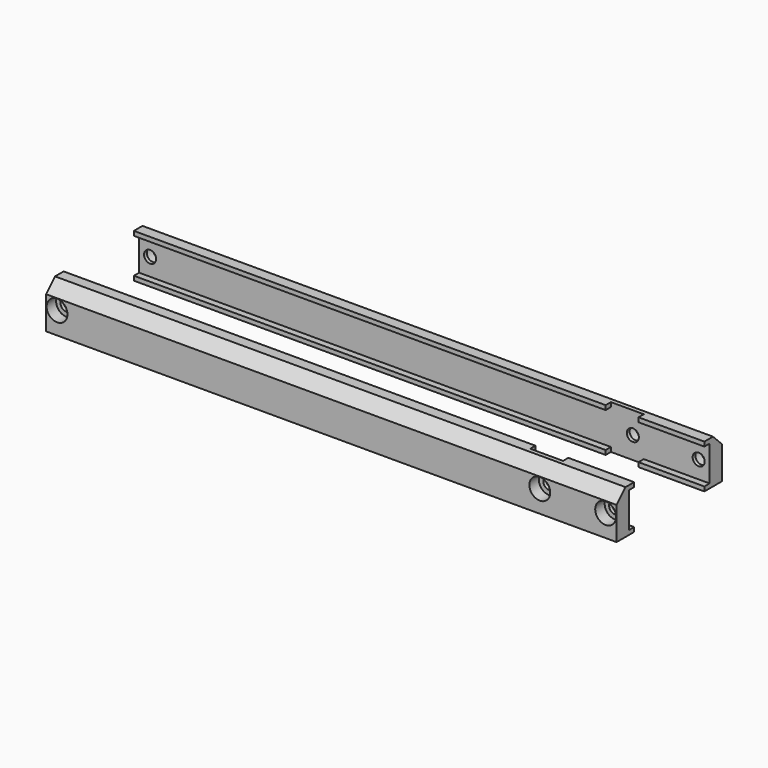
from build123d import *

# Parameters (mm, degrees)
F0_W           = 260
F0_H           = 20
F1_DEPTH       = 7
F3_D           = 5.5
F3_CBORE_D     = 9.5
F3_CBORE_DEPTH = 5.4
F4_W           = 215
F4_H           = 2
F4_W_2         = 30
F5_DEPTH       = 3
F6_SIZE        = 5.08


with BuildPart() as f1:
    # F0 (on Front) → F1 (new body)
    with BuildSketch(Plane.XZ):
        with Locations((130, 10)):
            Rectangle(F0_W, F0_H)
    extrude(amount=F1_DEPTH)

    # F3 (through all)
    with Locations(Plane(origin=(0, 0, 0), x_dir=(-1, 0, 0), z_dir=(0, 1, 0))):
        with Locations((-225, 10), (-5, 10), (-255, 10)):
            CounterBoreHole(F3_D / 2, F3_CBORE_D / 2, F3_CBORE_DEPTH)

    # F4 (on face) → F5 (join)
    with BuildSketch(Plane.XZ.offset(7)):
        with Locations((107.5, 19)):
            Rectangle(F4_W, F4_H)
        with Locations((245, 19)):
            Rectangle(F4_W_2, F4_H)
        with Locations((107.5, 1)):
            Rectangle(F4_W, F4_H)
        with Locations((245, 1)):
            Rectangle(F4_W_2, F4_H)
    extrude(amount=F5_DEPTH)

    # F6
    f6_edges = [f1.edges().sort_by_distance(p)[0] for p in [
        (130, 0, 20),
    ]]
    chamfer(f6_edges, length=F6_SIZE)


with BuildPart() as f8_1:
    # F8: instance of F1
    add(f1.part.mirror(Plane(origin=(107.5, -30, 19), x_dir=(1, 0, 0), z_dir=(0, -1, 0))))


solid = Compound([f1.part, f8_1.part])
